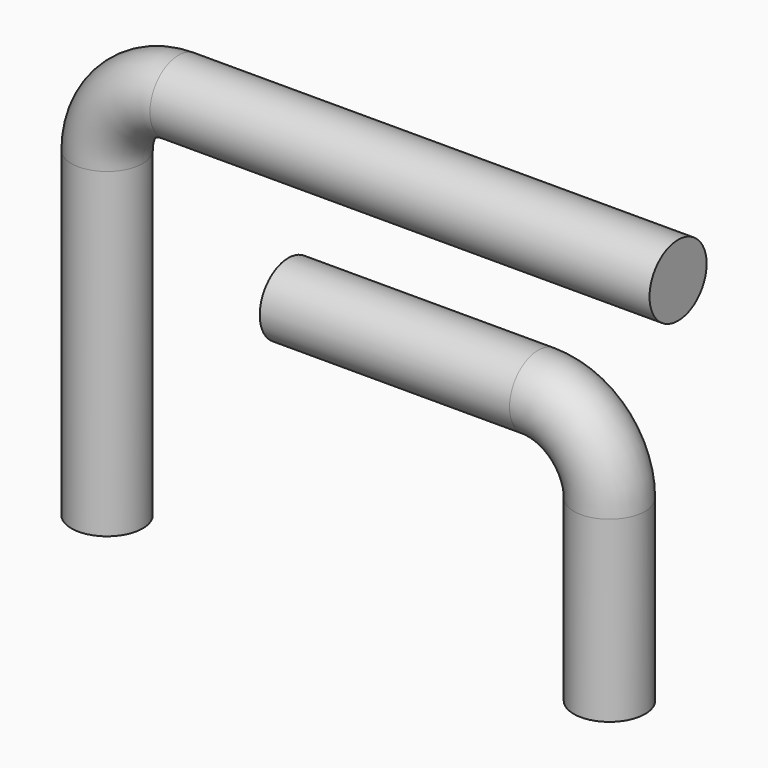
from build123d import *

# Parameters (mm, degrees)
F1_R = 5
F4_R = 5


with BuildPart() as f2:
    # F2: sweep along a path in F0
    with BuildLine(Plane.XZ) as f2_path:
        Line((0, 0), (0, 45))
        ThreePointArc((0, 45), (2.9289321881, 52.0710678119), (10, 55))
        Line((10, 55), (80, 55))
    # F1 (on Top) → F2 (sweep)
    with BuildSketch(Plane.XY):
        Circle(F1_R)
    sweep(path=f2_path.line)


with BuildPart() as f5:
    # F5: sweep along a path in F3
    with BuildLine(Plane.XZ) as f5_path:
        Line((70.387423113, 0), (70.387423113, 25))
        ThreePointArc((70.387423113, 25), (67.4584909249, 32.0710678119), (60.387423113, 35))
        Line((60.387423113, 35), (25.387423113, 35))
    # F4 (on Top) → F5 (sweep)
    with BuildSketch(Plane.XY):
        with Locations((70.3855827451, 0)):
            Circle(F4_R)
    sweep(path=f5_path.line)


solid = Compound([f2.part, f5.part])
